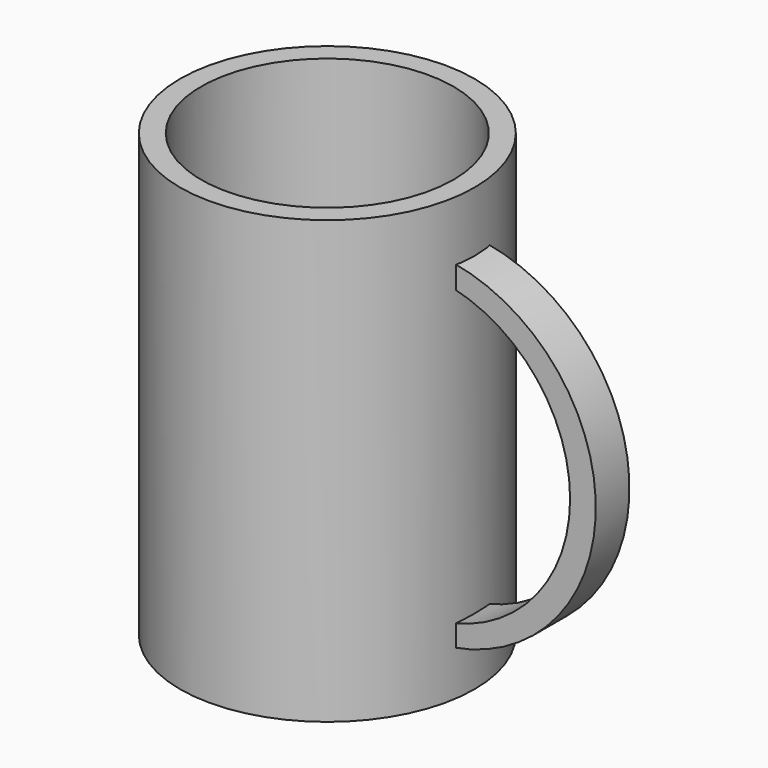
from build123d import *

# Parameters (mm, degrees)
F0_R     = 35
F1_DEPTH = 5
F2_R     = 35
F2_R_2   = 30
F3_DEPTH = 100
F5_DEPTH = 5


with BuildPart() as f1:
    # F0 (on Top) → F1 (new body)
    with BuildSketch(Plane.XY):
        Circle(F0_R)
    extrude(amount=F1_DEPTH)

    # F2 (on face) → F3 (join)
    with BuildSketch(Plane.XY.offset(5)):
        Circle(F2_R)
        Circle(F2_R_2, mode=Mode.SUBTRACT)
    extrude(amount=F3_DEPTH)


with BuildPart() as f5:
    # F4 (on Front) → F5 (new body, symmetric)
    with BuildSketch(Plane.XZ):
        with BuildLine():
            ThreePointArc((33.729728, 85.655823), (61.71599, 50.555157), (33.717267, 15.464429))
            Line((33.717267, 15.464429), (33.819433, 10.414119))
            ThreePointArc((33.819433, 10.414119), (67.826746, 50.653269), (33.876944, 90.940952))
            Line((33.876944, 90.940952), (33.729728, 85.655823))
        make_face()
    extrude(amount=F5_DEPTH, both=True)


solid = Compound([f1.part, f5.part])
